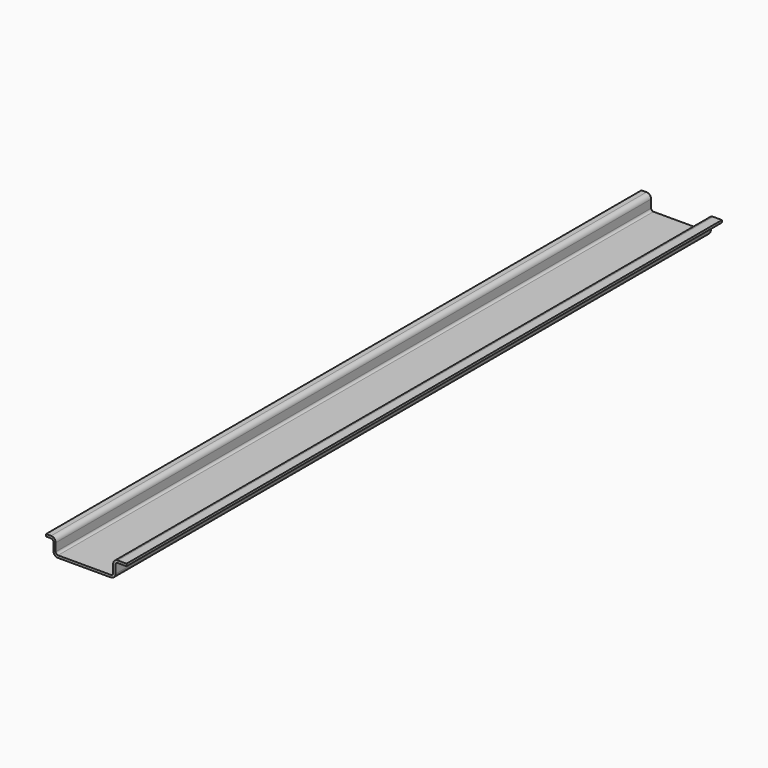
from build123d import *

# Parameters (mm, degrees)
F1_DEPTH = 161.925


with BuildPart() as f1:
    # F0 (on Front) → F1 (new body, symmetric)
    with BuildSketch(Plane.XZ):
        with BuildLine():
            ThreePointArc((-13.5001, 1.99898), (-12.914612, 0.585488), (-11.50112, 0))
            Line((-11.50112, 0), (11.50112, 0))
            ThreePointArc((11.50112, 0), (12.914612, 0.585488), (13.5001, 1.99898))
            Line((13.5001, 1.99898), (13.5001, 5.4991))
            ThreePointArc((13.5001, 5.4991), (13.793216, 6.206744), (14.50086, 6.49986))
            Line((14.50086, 6.49986), (18.328109, 6.49986))
            Line((18.328109, 6.49986), (18.328109, 7.50062))
            Line((18.328109, 7.50062), (14.5161, 7.50062))
            ThreePointArc((14.5161, 7.50062), (13.102608, 6.915132), (12.51712, 5.50164))
            Line((12.51712, 5.50164), (12.51712, 2.00152))
            ThreePointArc((12.51712, 2.00152), (12.224004, 1.293876), (11.51636, 1.00076))
            Line((11.51636, 1.00076), (-11.48334, 1.00076))
            ThreePointArc((-11.48334, 1.00076), (-12.190984, 1.293876), (-12.4841, 2.00152))
            Line((-12.4841, 2.00152), (-12.4841, 5.50164))
            ThreePointArc((-12.4841, 5.50164), (-13.069588, 6.915132), (-14.48308, 7.50062))
            Line((-14.48308, 7.50062), (-16.673091, 7.50062))
            Line((-16.673091, 7.50062), (-16.673091, 6.49986))
            Line((-16.673091, 6.49986), (-14.50086, 6.49986))
            ThreePointArc((-14.50086, 6.49986), (-13.793216, 6.206744), (-13.5001, 5.4991))
            Line((-13.5001, 5.4991), (-13.5001, 1.99898))
        make_face()
    extrude(amount=F1_DEPTH, both=True)


solid = f1.part
